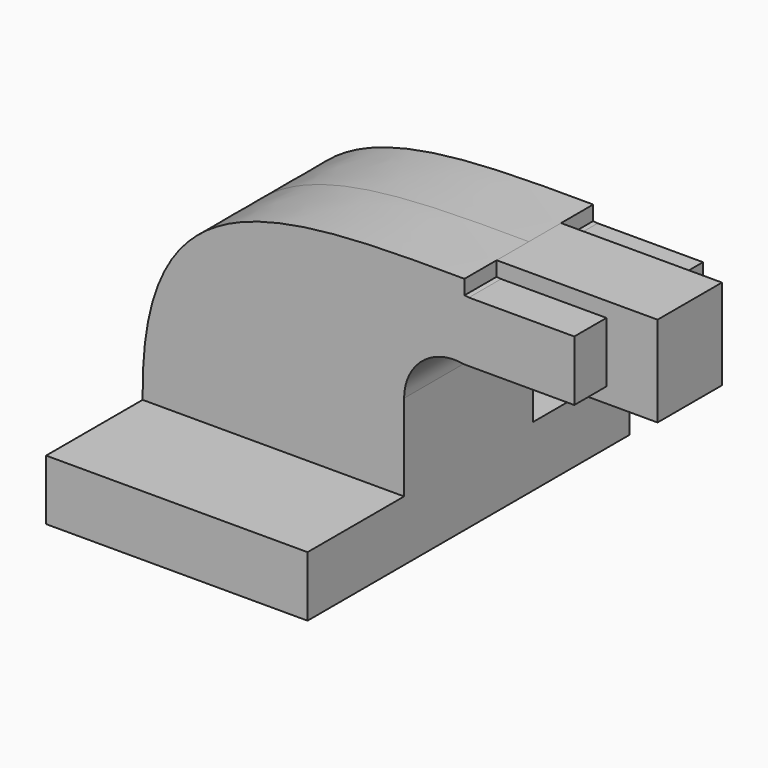
from build123d import *

# Parameters (mm, degrees)
F1_DEPTH = 63.5
F2_DEPTH = 25.4
F3_DEPTH = 25.4
F4_DEPTH = 25.4
F5_DEPTH = 12.7


with BuildPart() as f1:
    # F0 (on Front) → F1 (new body, symmetric)
    with BuildSketch(Plane.XZ):
        Polygon((22.225, 9.525), (-41.275, 9.525), (-41.275, -9.525), (41.275, -9.525), (41.275, 9.525), align=None)
    extrude(amount=F1_DEPTH, both=True)

    # F0 (on Front) → F2 (join, symmetric)
    with BuildSketch(Plane.XZ):
        with BuildLine():
            Line((22.225, 36.82567), (22.225, 9.525))
            Line((22.225, 9.525), (41.275, 9.525))
            Line((41.275, 9.525), (41.275, 36.82567))
            ThreePointArc((41.275, 36.82567), (47.069933, 49.089759), (60.224024, 52.4002))
            Line((60.224024, 52.4002), (60.325, 52.4002))
            Line((60.325, 52.4002), (60.325, 71.606052))
            ThreePointArc((60.325, 71.606052), (33.60357, 62.619491), (22.225, 36.82567))
        make_face()
    extrude(amount=F2_DEPTH, both=True)

    # F0 (on Front) → F3 (join, symmetric)
    with BuildSketch(Plane.XZ):
        with BuildLine():
            ThreePointArc((61.72138, 71.4502), (61.023974, 71.535149), (60.325, 71.606052))
            Line((60.325, 71.606052), (60.325, 52.4002))
            Line((60.325, 52.4002), (94.995893, 52.4002))
            Line((94.995893, 52.4002), (94.995893, 71.4502))
            Line((94.995893, 71.4502), (61.72138, 71.4502))
        make_face()
    extrude(amount=F3_DEPTH, both=True)

    # F0 (on Front) → F4 (join, symmetric)
    with BuildSketch(Plane.XZ):
        with BuildLine():
            add(Edge.make_bspline(
                [(-41.275, 9.525), (-42.333655, 75.119734), (0, 76.560877), (60.325, 76.2)],
                knots=[0, 0, 0, 0, 121.524136, 121.524136, 121.524136, 121.524136], degree=3))
            Line((-41.275, 9.525), (22.225, 9.525))
            Line((22.225, 9.525), (22.225, 36.82567))
            ThreePointArc((22.225, 36.82567), (33.60357, 62.619491), (60.325, 71.606052))
            Line((60.325, 71.606052), (60.325, 76.2))
        make_face()
    extrude(amount=F4_DEPTH, both=True)

    # F0 (on Front) → F5 (join, symmetric)
    with BuildSketch(Plane.XZ):
        with BuildLine():
            Line((111.125, 76.2), (60.325, 76.2))
            Line((60.325, 76.2), (60.325, 71.606052))
            ThreePointArc((60.325, 71.606052), (61.023974, 71.535149), (61.72138, 71.4502))
            Line((61.72138, 71.4502), (94.995893, 71.4502))
            Line((94.995893, 71.4502), (94.995893, 52.4002))
            Line((94.995893, 52.4002), (60.325, 52.4002))
            Line((60.325, 52.4002), (60.325, 47.625))
            Line((60.325, 47.625), (111.125, 47.625))
            Line((111.125, 47.625), (111.125, 76.2))
        make_face()
    extrude(amount=F5_DEPTH, both=True)


solid = f1.part
